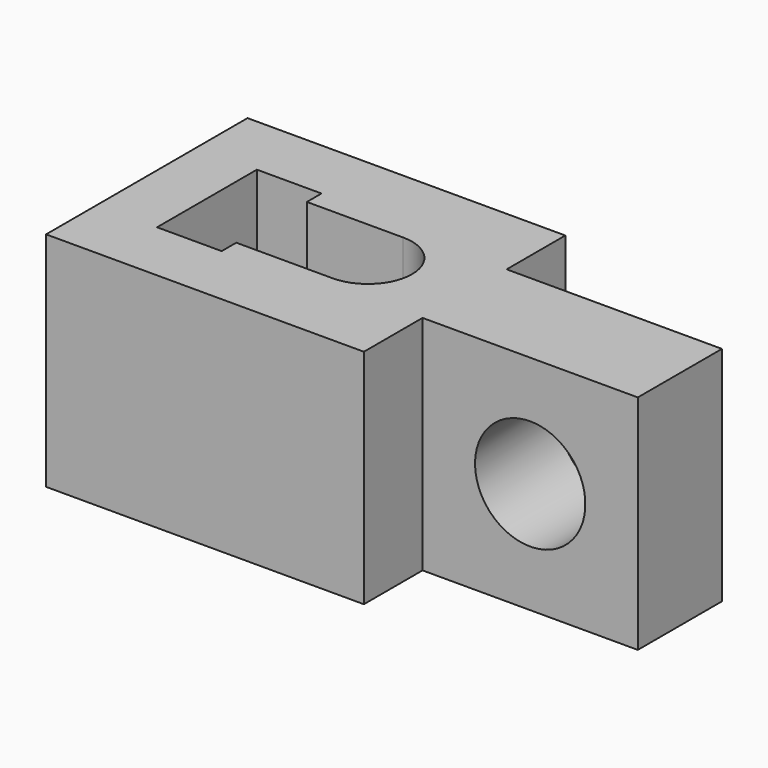
from build123d import *

# Parameters (mm, degrees)
F0_W     = 10.73
F0_H     = 5.24
F1_DEPTH = 11.08
F3_D     = 3.9
F3_DEPTH = 12
F5_D     = 5.5


with BuildPart() as f1:
    # F0 (on Top) → F1 (new body)
    with BuildSketch(Plane.XY):
        Polygon((0, 6.275), (-15.84, 6.275), (-15.84, -6.275), (0, -6.275), (0, -2.62), (0, 2.62), align=None)
        with BuildLine():
            Line((-12.84, -3.11), (-12.84, 3.11))
            Line((-12.84, 3.11), (-9.62, 3.11))
            Line((-9.62, 3.11), (-9.62, 2.2))
            Line((-9.62, 2.2), (-4.82, 2.2))
            ThreePointArc((-4.82, 2.2), (-3.264365, 1.555635), (-2.62, 0))
            ThreePointArc((-2.62, 0), (-3.264365, -1.555635), (-4.82, -2.2))
            Line((-4.82, -2.2), (-9.62, -2.2))
            Line((-9.62, -2.2), (-9.62, -3.11))
            Line((-9.62, -3.11), (-12.84, -3.11))
        make_face(mode=Mode.SUBTRACT)
        with Locations((5.365, 0)):
            Rectangle(F0_W, F0_H)
    extrude(amount=F1_DEPTH)

    # F3
    with Locations(Plane(origin=(-15.84, 0, 0), x_dir=(0, -1, 0), z_dir=(-1, 0, 0))):
        with Locations((0, 5.54)):
            Hole(F3_D / 2, depth=F3_DEPTH)

    # F5 (through all)
    with Locations(Plane.XZ.offset(2.62)):
        with Locations((5.365, 5.54)):
            Hole(F5_D / 2)


solid = f1.part
